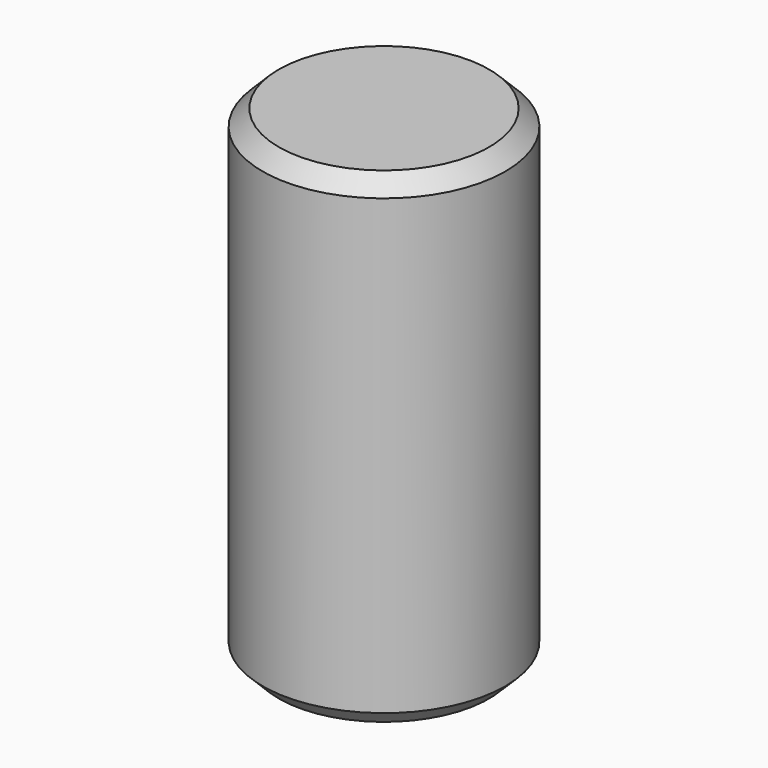
from build123d import *

# Parameters (mm, degrees)
F2_SIZE = 1.27


with BuildPart() as f1:
    # F0 (on Front) → F1 (revolve)
    with BuildSketch(Plane.XZ):
        with BuildLine():
            Line((0, 36.83), (0, 0))
            Line((0, 0), (6.35, 0))
            Line((6.35, 0), (6.35, 16.9997395874))
            ThreePointArc((6.35, 16.9997395874), (7.170237797, 21.4898676479), (9.525, 25.4))
            Line((9.525, 25.4), (9.525, 38.1))
            ThreePointArc((9.525, 38.1), (4.7203531607, 37.7811012944), (0, 36.83))
        make_face()
        with BuildLine():
            Line((0, 38.1), (0, 36.83))
            ThreePointArc((0, 36.83), (4.7203531607, 37.7811012944), (9.525, 38.1))
            Line((9.525, 38.1), (0, 38.1))
        make_face()
    revolve(axis=Axis((9.525, 0, 31.75), (0, 0, -1)))

    # F2
    f2_edges = [f1.edges().sort_by_distance(p)[0] for p in [
        (19.05, 0, 38.1),
        (19.05, 0, 0),
        (0, 0, 19.05),
        (12.7, 0, 0),
    ]]
    chamfer(f2_edges, length=F2_SIZE)


solid = f1.part
